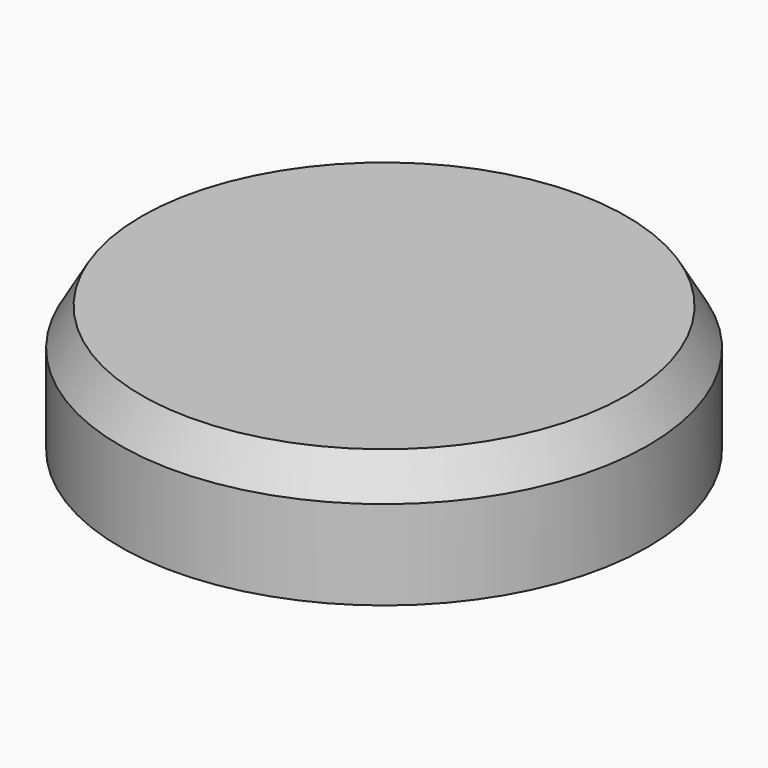
from build123d import *

# Parameters (mm, degrees)
F0_R      = 18.0356105831
F1_DEPTH  = 6.096
F1_FACE_R = 18.0356105831
F2_DEPTH  = 2.54
F2_TAPER  = 30


with BuildPart() as f1:
    # F0 (on Top) → F1 (new body)
    with BuildSketch(Plane.XY):
        Circle(F0_R)
    extrude(amount=F1_DEPTH)

    # F1_face (on face) → F2 (join)
    with BuildSketch(Plane.XY.offset(6.096)):
        Circle(F1_FACE_R)
    extrude(amount=F2_DEPTH, taper=F2_TAPER)


solid = f1.part
